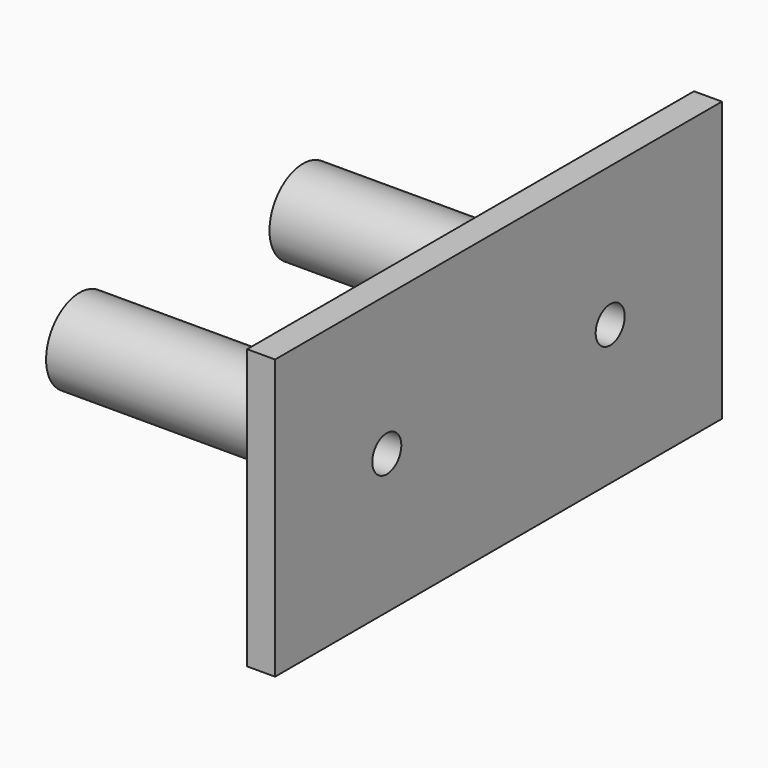
from build123d import *

# Parameters (mm, degrees)
SKETCH005_W       = 20
SKETCH005_H       = 40
SKETCH005_R       = 1.3
PAD002_DEPTH      = 5
SKETCH006_R       = 2.5
PAD003_DEPTH      = 20
SKETCH007_R       = 1.6
POCKET003_DEPTH   = 0.5
POCKET003_FACE4_W = 40
POCKET003_FACE4_H = 20
POCKET003_FACE4_R = 1.3
POCKET006_DEPTH   = 3
SKETCH014_R       = 1.3
POCKET009_DEPTH   = 5
SKETCH016_R       = 3
SKETCH016_R_2     = 2.5
PAD008_DEPTH      = 20
SKETCH017_R       = 1.375
POCKET010_DEPTH   = 5


with BuildPart() as part:
    # Sketch005 (on DatumPlane) → Pad002 (new body)
    with BuildSketch(Plane(origin=(0, 0, 20), x_dir=(0, 0, -1), z_dir=(-1, 0, 0))):
        with Locations((10, 20)):
            Rectangle(SKETCH005_W, SKETCH005_H)
        with Locations((10, 30)):
            Circle(SKETCH005_R, mode=Mode.SUBTRACT)
        with Locations((10, 10)):
            Circle(SKETCH005_R, mode=Mode.SUBTRACT)
    extrude(amount=PAD002_DEPTH)

    # Sketch006 (on Face8 of Pad002) → Pad003 (join)
    with BuildSketch(Plane(origin=(-5, 0, 20), x_dir=(0, 0, -1), z_dir=(-1, 0, 0))):
        with Locations((10, 30)):
            Circle(SKETCH006_R)
        with Locations((10, 10)):
            Circle(SKETCH006_R)
    extrude(amount=PAD003_DEPTH)

    # Sketch007 → Pocket003 (cut)
    with BuildSketch(Plane(origin=(-5, 0, 20), x_dir=(0, 0, -1), z_dir=(-1, 0, 0))):
        with Locations((10, 20)):
            Circle(SKETCH007_R)
    extrude(amount=-POCKET003_DEPTH, mode=Mode.SUBTRACT)

    # Pocket003 Face4 → Pocket006 (cut)
    with BuildSketch(Plane(origin=(0, -20, 10), x_dir=(0, -1, 0), z_dir=(1, 0, 0))):
        Rectangle(POCKET003_FACE4_W, POCKET003_FACE4_H)
        with Locations((10, 0)):
            Circle(POCKET003_FACE4_R, mode=Mode.SUBTRACT)
        with Locations((-10, 0)):
            Circle(POCKET003_FACE4_R, mode=Mode.SUBTRACT)
    extrude(amount=-POCKET006_DEPTH, mode=Mode.SUBTRACT)

    # Sketch014 (on Face14 of Pocket006) → Pocket009 (cut)
    with BuildSketch(Plane(origin=(-25, 0, 20), x_dir=(0, 0, -1), z_dir=(-1, 0, 0))):
        with Locations((10, 10)):
            Circle(SKETCH014_R)
        with Locations((10, 30)):
            Circle(SKETCH014_R)
    extrude(amount=-POCKET009_DEPTH, mode=Mode.SUBTRACT)

    # Sketch016 (on Face14 of Pocket009) → Pad008 (join)
    with BuildSketch(Plane(origin=(-25, 0, 20), x_dir=(0, 0, -1), z_dir=(-1, 0, 0))):
        with Locations((10, 30)):
            Circle(SKETCH016_R)
        with Locations((10, 30)):
            Circle(SKETCH016_R_2, mode=Mode.SUBTRACT)
        with Locations((10, 10)):
            Circle(SKETCH016_R)
        with Locations((10, 10)):
            Circle(SKETCH016_R_2, mode=Mode.SUBTRACT)
    extrude(amount=-PAD008_DEPTH)

    # Sketch017 (on Face15 of Pad008) → Pocket010 (cut)
    with BuildSketch(Plane(origin=(-25, 0, 20), x_dir=(0, 0, -1), z_dir=(-1, 0, 0))):
        with Locations((10, 30)):
            Circle(SKETCH017_R)
        with Locations((10, 10)):
            Circle(SKETCH017_R)
    extrude(amount=-POCKET010_DEPTH, mode=Mode.SUBTRACT)


with BuildPart() as part_1:
    # Body002 placement: moved
    add(part.part.moved(Location((-20, 0, 0))))


solid = part_1.part
